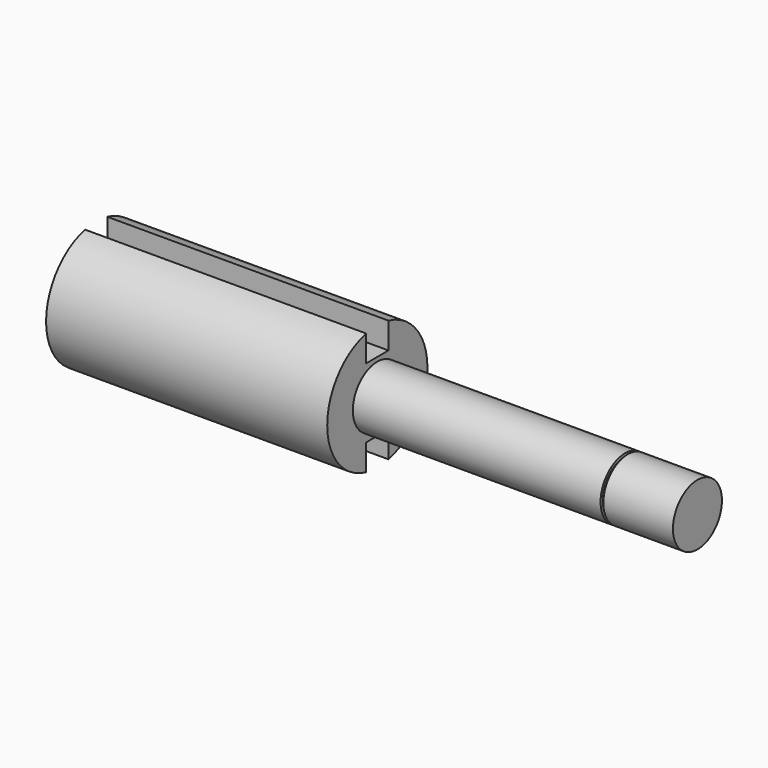
from build123d import *

# Parameters (mm, degrees)
F3_DEPTH = 125


with BuildPart() as f1:
    # F0 (on Front) → F1 (revolve)
    with BuildSketch(Plane.XZ):
        Polygon((0, 22.5), (0, 0), (216, 0), (216, 11), (191, 11), (191, 10), (190, 10), (190, 11), (101, 11), (101, 22.5), align=None)
    revolve(axis=Axis((86.003285, 0, 0), (1, 0, 0)))

    # F2 (on face) → F3 (cut)
    with BuildSketch(Plane.YZ.offset(101)):
        with BuildLine():
            ThreePointArc((5, 21.937411), (0, 22.5), (-5, 21.937411))
            Line((-5, 21.937411), (-5, 12.5))
            Line((-5, 12.5), (5, 12.5))
            Line((5, 12.5), (5, 21.937411))
        make_face()
        with BuildLine():
            Line((-5, -12.5), (-5, -21.937411))
            ThreePointArc((-5, -21.937411), (0, -22.5), (5, -21.937411))
            Line((5, -21.937411), (5, -12.5))
            Line((5, -12.5), (-5, -12.5))
        make_face()
    extrude(amount=-F3_DEPTH, mode=Mode.SUBTRACT)


solid = f1.part
